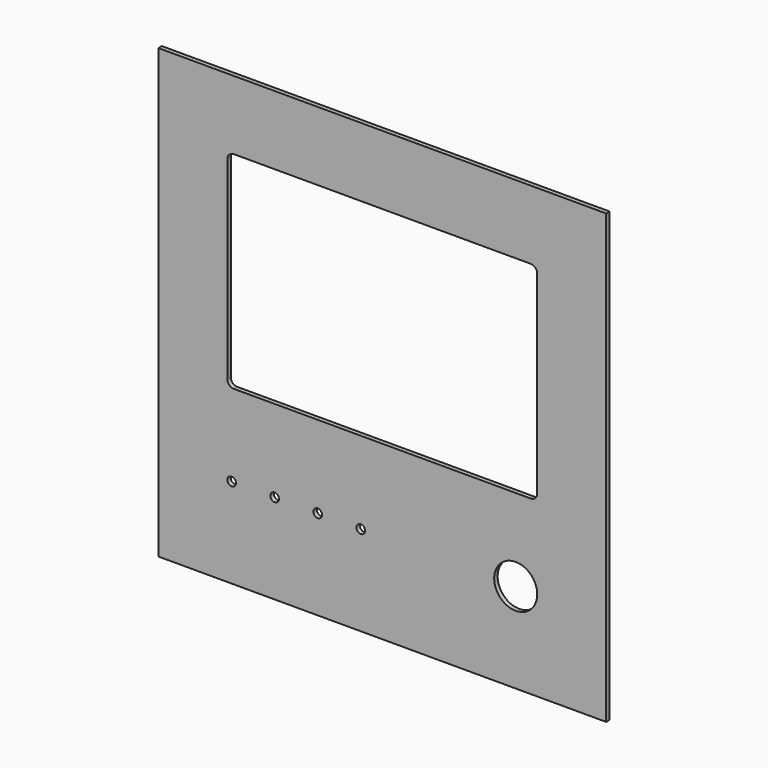
from build123d import *

# Parameters (mm, degrees)
F0_W     = 330.2
F0_H     = 330.2
F3_DEPTH = 3.175
F4_DEPTH = 25.4


with BuildPart() as f3:
    # F0 (on Front) → F3 (new body)
    with BuildSketch(Plane.XZ):
        Rectangle(F0_W, F0_H)
    extrude(amount=F3_DEPTH)

    # F1 (on face) + F2 (on face) → F4 (cut)
    with BuildSketch(Plane.XZ):
        with BuildLine():
            ThreePointArc((-114.3, -33.3375), (-112.905096, -36.705096), (-109.5375, -38.1))
            Line((-109.5375, -38.1), (109.5375, -38.1))
            ThreePointArc((109.5375, -38.1), (112.905096, -36.705096), (114.3, -33.3375))
            Line((114.3, -33.3375), (114.3, 109.5375))
            ThreePointArc((114.3, 109.5375), (112.905096, 112.905096), (109.5375, 114.3))
            Line((109.5375, 114.3), (-109.5375, 114.3))
            ThreePointArc((-109.5375, 114.3), (-112.905096, 112.905096), (-114.3, 109.5375))
            Line((-114.3, 109.5375), (-114.3, -33.3375))
        make_face()
    with BuildSketch(Plane.XZ):
        with BuildLine():
            ThreePointArc((82.55, -98.754585), (98.425, -114.629585), (114.3, -98.754585))
            ThreePointArc((114.3, -98.754585), (98.425, -82.879585), (82.55, -98.754585))
        make_face()
        with BuildLine():
            ThreePointArc((-19.05, -98.754585), (-15.875, -101.929585), (-12.7, -98.754585))
            Line((-12.7, -98.754585), (-19.05, -98.754585))
        make_face()
        with BuildLine():
            Line((-19.05, -98.754585), (-12.7, -98.754585))
            ThreePointArc((-12.7, -98.754585), (-15.875, -95.579585), (-19.05, -98.754585))
        make_face()
        with BuildLine():
            Line((-50.8, -98.754585), (-44.45, -98.754585))
            ThreePointArc((-44.45, -98.754585), (-47.625, -95.579585), (-50.8, -98.754585))
        make_face()
        with BuildLine():
            ThreePointArc((-50.8, -98.754585), (-47.625, -101.929585), (-44.45, -98.754585))
            Line((-44.45, -98.754585), (-50.8, -98.754585))
        make_face()
        with BuildLine():
            Line((-82.55, -98.754585), (-76.2, -98.754585))
            ThreePointArc((-76.2, -98.754585), (-79.375, -95.579585), (-82.55, -98.754585))
        make_face()
        with BuildLine():
            ThreePointArc((-82.55, -98.754585), (-79.375, -101.929585), (-76.2, -98.754585))
            Line((-76.2, -98.754585), (-82.55, -98.754585))
        make_face()
        with BuildLine():
            ThreePointArc((-114.3, -98.754585), (-111.125, -101.929585), (-107.95, -98.754585))
            Line((-107.95, -98.754585), (-114.3, -98.754585))
        make_face()
        with BuildLine():
            Line((-114.3, -98.754585), (-107.95, -98.754585))
            ThreePointArc((-107.95, -98.754585), (-111.125, -95.579585), (-114.3, -98.754585))
        make_face()
    extrude(amount=F4_DEPTH, mode=Mode.SUBTRACT)


solid = f3.part
